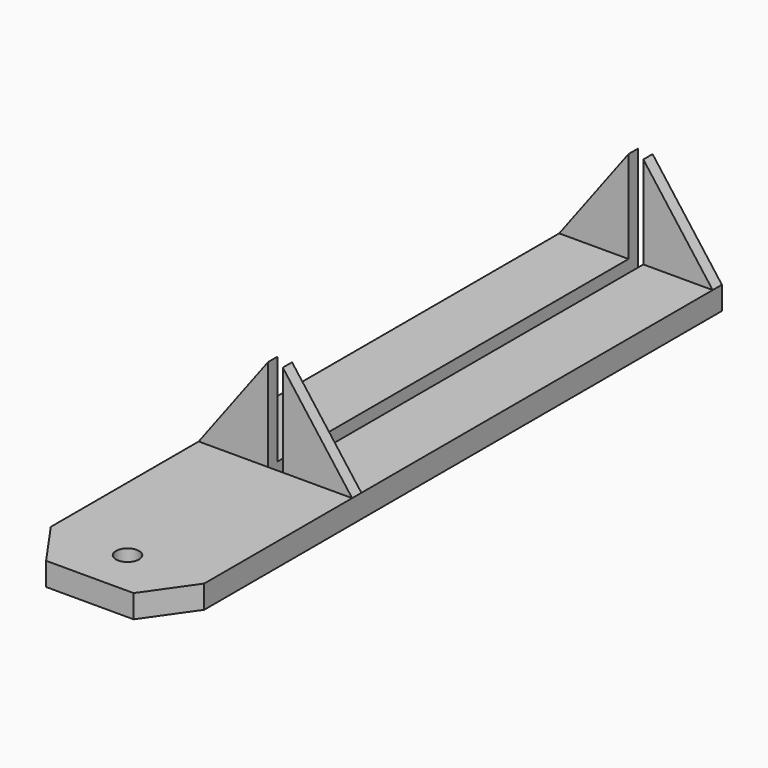
from build123d import *

# Parameters (mm, degrees)
F1_DEPTH = 12.7
F2_W     = 38.1
F2_H     = 6.35
F3_DEPTH = 50.8
F5_DEPTH = 25.4
F8_W     = 130.532998
F8_H     = 167.270158
F9_DEPTH = 25.4


with BuildPart() as f1:
    # F0 (on Top) → F1 (new body)
    with BuildSketch(Plane.XY):
        with BuildLine():
            Line((4.064, 127), (4.064, -127))
            Line((4.064, -127), (-4.064, -127))
            Line((-4.064, -127), (-4.064, 127))
            Line((-4.064, 127), (-42.164, 127))
            Line((-42.164, 127), (-42.164, -127))
            Line((-42.164, -127), (-42.164, -228.6))
            Line((-42.164, -228.6), (-6.35, -228.6))
            ThreePointArc((-6.35, -228.6), (0, -222.25), (6.35, -228.6))
            Line((6.35, -228.6), (42.164, -228.6))
            Line((42.164, -228.6), (42.164, -127))
            Line((42.164, -127), (42.164, 127))
            Line((42.164, 127), (4.064, 127))
        make_face()
        with BuildLine():
            Line((24.050886, -254.468208), (42.164, -228.6))
            Line((42.164, -228.6), (6.35, -228.6))
            ThreePointArc((6.35, -228.6), (0, -234.95), (-6.35, -228.6))
            Line((-6.35, -228.6), (-42.164, -228.6))
            Line((-42.164, -228.6), (-24.050886, -254.468208))
            Line((-24.050886, -254.468208), (24.050886, -254.468208))
        make_face()
    extrude(amount=F1_DEPTH)

    # F2 (on face) → F3 (join)
    with BuildSketch(Plane.XY.offset(12.7)):
        with Locations((-23.114, -123.825)):
            Rectangle(F2_W, F2_H)
    extrude(amount=F3_DEPTH)

    # F4 (on face) → F5 (cut)
    with BuildSketch(Plane.XZ.offset(127)):
        Polygon((-42.164, 12.7), (-4.064, 63.5), (-42.164, 63.5), align=None)
    extrude(amount=-F5_DEPTH, mode=Mode.SUBTRACT)

    # F6: F1 across plane


with BuildPart() as f1_1:
    add(f1.part)
    add(f1.part.mirror(Plane.YZ))

    # F7: F1 across plane


with BuildPart() as f1_2:
    add(f1_1.part)
    add(f1_1.part.mirror(Plane.XZ))

    # F8 (on face) → F9 (cut)
    with BuildSketch(Plane.XY.offset(12.7)):
        with Locations((23.102499, 210.635079)):
            Rectangle(F8_W, F8_H)
    extrude(amount=-F9_DEPTH, mode=Mode.SUBTRACT)


solid = f1_2.part
